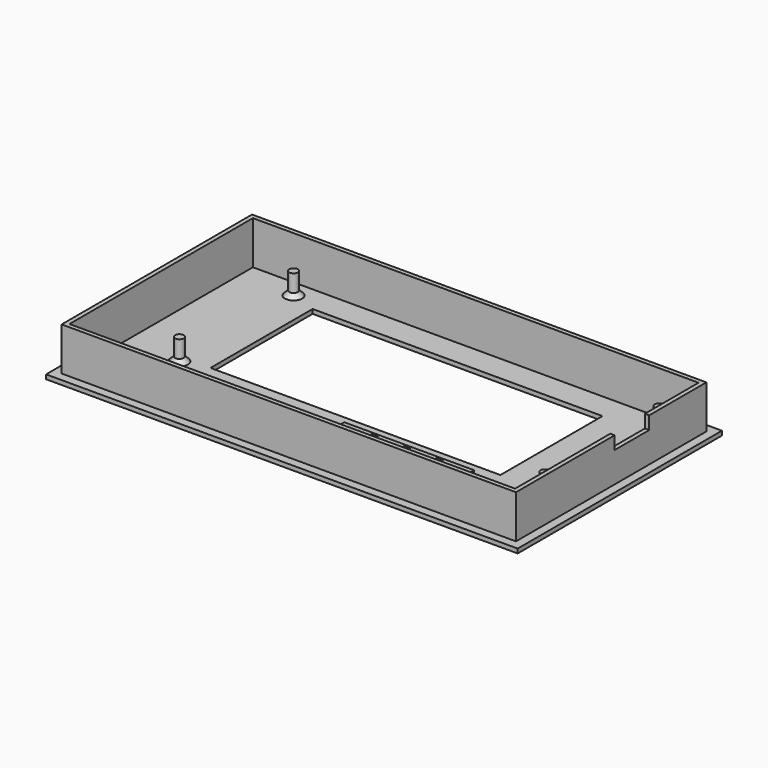
from build123d import *

# Parameters (mm, degrees)
SKETCH015_W     = 109
SKETCH015_H     = 59
SKETCH015_R     = 2.5
SKETCH015_W_2   = 67
SKETCH015_H_2   = 29.5
PAD008_DEPTH    = 1
SKETCH016_R     = 1
PAD009_DEPTH    = 5
SKETCH017_W     = 105
SKETCH017_H     = 55
SKETCH017_W_2   = 103
SKETCH017_H_2   = 53
PAD010_DEPTH    = 10
SKETCH018_W     = 10
SKETCH018_H     = 3
POCKET002_DEPTH = 5
SKETCH019_W     = 30
SKETCH019_H     = 10
PAD011_DEPTH    = 2
CHAMFER008_SIZE = 1


with BuildPart() as part:
    # Sketch015 → Pad008 (new body)
    with BuildSketch(Plane.XY):
        with Locations((54.5, 29.5)):
            Rectangle(SKETCH015_W, SKETCH015_H)
        with Locations((63.6, 11.5)):
            Circle(SKETCH015_R, mode=Mode.SUBTRACT)
        with Locations((71.1, 11.5)):
            Circle(SKETCH015_R, mode=Mode.SUBTRACT)
        with Locations((78.6, 11.5)):
            Circle(SKETCH015_R, mode=Mode.SUBTRACT)
        with Locations((55.1, 35.25)):
            Rectangle(SKETCH015_W_2, SKETCH015_H_2, mode=Mode.SUBTRACT)
    extrude(amount=PAD008_DEPTH)

    # Sketch016 → Pad009 (join)
    with BuildSketch(Plane.XY.offset(1)):
        with Locations((15.6, 52)):
            Circle(SKETCH016_R)
        with Locations((100.1, 52)):
            Circle(SKETCH016_R)
        with Locations((100.1, 19)):
            Circle(SKETCH016_R)
        with Locations((15.6, 19)):
            Circle(SKETCH016_R)
    extrude(amount=PAD009_DEPTH)

    # Sketch017 → Pad010 (join)
    with BuildSketch(Plane.XY.offset(1)):
        with Locations((54.5, 29.5)):
            Rectangle(SKETCH017_W, SKETCH017_H)
        with Locations((54.5, 29.5)):
            Rectangle(SKETCH017_W_2, SKETCH017_H_2, mode=Mode.SUBTRACT)
    extrude(amount=PAD010_DEPTH)

    # Sketch018 (on Face16 of Pad010) → Pocket002 (cut)
    with BuildSketch(Plane.YZ.offset(107)):
        with Locations((35.5, 9.5)):
            Rectangle(SKETCH018_W, SKETCH018_H)
    extrude(amount=-POCKET002_DEPTH, mode=Mode.SUBTRACT)

    # Sketch019 (on Face18 of Pocket002) → Pad011 (join)
    with BuildSketch(Plane.XY.offset(1)):
        with Locations((71.1, 11)):
            Rectangle(SKETCH019_W, SKETCH019_H)
        with BuildLine():
            ThreePointArc((62.85, 14.507906), (63.6, 8.4), (64.35, 14.507906))
            Line((64.35, 15.507906), (64.35, 14.507906))
            Line((62.85, 15.507906), (64.35, 15.507906))
            Line((62.85, 14.507906), (62.85, 15.507906))
        make_face(mode=Mode.SUBTRACT)
        with BuildLine():
            ThreePointArc((70.35, 14.507906), (71.1, 8.4), (71.85, 14.507906))
            Line((71.85, 15.507906), (71.85, 14.507906))
            Line((70.35, 15.507906), (71.85, 15.507906))
            Line((70.35, 14.507906), (70.35, 15.507906))
        make_face(mode=Mode.SUBTRACT)
        with BuildLine():
            ThreePointArc((77.85, 14.507906), (78.6, 8.4), (79.35, 14.507906))
            Line((79.35, 15.507906), (79.35, 14.507906))
            Line((77.85, 15.507906), (79.35, 15.507906))
            Line((77.85, 14.507906), (77.85, 15.507906))
        make_face(mode=Mode.SUBTRACT)
    extrude(amount=PAD011_DEPTH)

    # Chamfer008
    chamfer008_edges = [part.edges().sort_by_distance(p)[0] for p in [
        (14.6, 52, 1),
        (14.6, 19, 1),
        (99.1, 19, 1),
        (99.1, 52, 1),
    ]]
    chamfer(chamfer008_edges, length=CHAMFER008_SIZE)


solid = part.part
